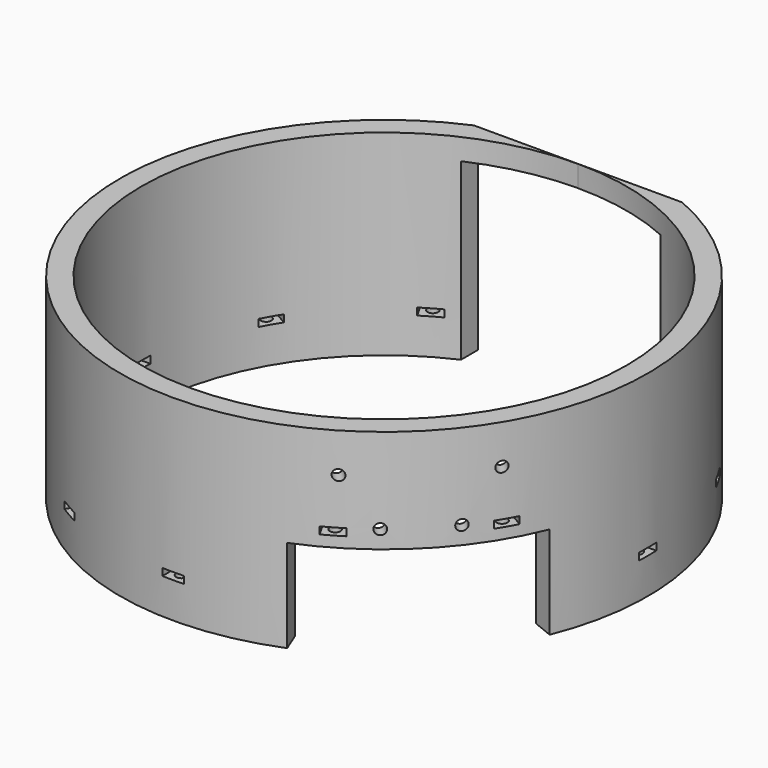
from build123d import *

# Parameters (mm, degrees)
BOX691_W                     = 6
BOX691_H                     = 4
BOX691_DEPTH                 = 6
BOX692_W                     = 6
BOX692_H                     = 4
BOX692_DEPTH                 = 6
COMPOUND880_PLACEMENT_ANGLE  = 225
CYLINDER1738_R               = 1.5
CYLINDER1738_DEPTH           = 50
COMPOUND878_PLACEMENT_ANGLE  = 225
CYLINDER1737_R               = 1.5
CYLINDER1737_DEPTH           = 50
COMPOUND879_PLACEMENT_ANGLE  = 225
BOX686_W                     = 6
BOX686_H                     = 4
BOX686_DEPTH                 = 6
BOX687_W                     = 6
BOX687_H                     = 4
BOX687_DEPTH                 = 6
COMPOUND866_PLACEMENT_ANGLE  = 225
CYLINDER1723_R               = 1.5
CYLINDER1723_DEPTH           = 50
COMPOUND864_PLACEMENT_ANGLE  = 225
CYLINDER1722_R               = 1.5
CYLINDER1722_DEPTH           = 50
COMPOUND863_PLACEMENT_ANGLE  = 225
CYLINDER1632_R               = 1.5
CYLINDER1632_DEPTH           = 72
CYLINDER1632_PLACEMENT_ANGLE = 30
CYLINDER1631_R               = 1.5
CYLINDER1631_DEPTH           = 72
CYLINDER1631_PLACEMENT_ANGLE = 60
CYLINDER1629_R               = 1.5
CYLINDER1629_DEPTH           = 72
CYLINDER1636_R               = 1.5
CYLINDER1636_DEPTH           = 72
CYLINDER1636_PLACEMENT_ANGLE = 120
CYLINDER1630_R               = 1.5
CYLINDER1630_DEPTH           = 72
CYLINDER1630_PLACEMENT_ANGLE = 150
CYLINDER1640_R               = 1.5
CYLINDER1640_DEPTH           = 72
CYLINDER1638_R               = 1.5
CYLINDER1638_DEPTH           = 72
CYLINDER1638_PLACEMENT_ANGLE = 210
CYLINDER1639_R               = 1.5
CYLINDER1639_DEPTH           = 72
CYLINDER1639_PLACEMENT_ANGLE = 240
CYLINDER1634_R               = 1.5
CYLINDER1634_DEPTH           = 72
CYLINDER1635_R               = 1.5
CYLINDER1635_DEPTH           = 72
CYLINDER1635_PLACEMENT_ANGLE = 60
CYLINDER1633_R               = 1.5
CYLINDER1633_DEPTH           = 72
CYLINDER1633_PLACEMENT_ANGLE = 30
CYLINDER1637_R               = 1.5
CYLINDER1637_DEPTH           = 72
BOX489_W                     = 6
BOX489_H                     = 8
BOX489_DEPTH                 = 2
BOX489_PLACEMENT_ANGLE       = 30
BOX490_W                     = 6
BOX490_H                     = 8
BOX490_DEPTH                 = 2
BOX490_PLACEMENT_ANGLE       = 60
BOX491_W                     = 6
BOX491_H                     = 8
BOX491_DEPTH                 = 2
BOX492_W                     = 6
BOX492_H                     = 8
BOX492_DEPTH                 = 2
BOX492_PLACEMENT_ANGLE       = 120
BOX493_W                     = 6
BOX493_H                     = 8
BOX493_DEPTH                 = 2
BOX493_PLACEMENT_ANGLE       = 150
BOX494_W                     = 6
BOX494_H                     = 8
BOX494_DEPTH                 = 2
BOX495_W                     = 6
BOX495_H                     = 8
BOX495_DEPTH                 = 2
BOX495_PLACEMENT_ANGLE       = 210
BOX496_W                     = 6
BOX496_H                     = 8
BOX496_DEPTH                 = 2
BOX496_PLACEMENT_ANGLE       = 240
BOX497_W                     = 6
BOX497_H                     = 8
BOX497_DEPTH                 = 2
BOX498_W                     = 6
BOX498_H                     = 8
BOX498_DEPTH                 = 2
BOX498_PLACEMENT_ANGLE       = 60
BOX499_W                     = 6
BOX499_H                     = 8
BOX499_DEPTH                 = 2
BOX499_PLACEMENT_ANGLE       = 30
BOX488_W                     = 6
BOX488_H                     = 8
BOX488_DEPTH                 = 2
BOX649_W                     = 200
BOX649_H                     = 200
BOX649_DEPTH                 = 60
BOX649_PLACEMENT_ANGLE       = 202
BOX648_W                     = 200
BOX648_H                     = 200
BOX648_DEPTH                 = 60
BOX648_PLACEMENT_ANGLE       = 22
BOX647_W                     = 200
BOX647_H                     = 120
BOX647_DEPTH                 = 60
BOX647_PLACEMENT_ANGLE       = 225
BOX486_W                     = 148
BOX486_H                     = 26
BOX486_DEPTH                 = 55
BOX485_W                     = 56
BOX485_H                     = 200
BOX485_DEPTH                 = 49
TUBE035_R                    = 74
TUBE035_R_2                  = 68
TUBE035_DEPTH                = 55


with BuildPart() as krychle691:
    # Box691 → Box691 (new body)
    with BuildSketch(Plane(origin=(6, 66, -63), x_dir=(1, 0, 0), z_dir=(0, 0, 1))):
        with Locations((3, 2)):
            Rectangle(BOX691_W, BOX691_H)
    extrude(amount=BOX691_DEPTH)


with BuildPart() as compound880:
    # Box692 → Box692 (new body)
    with BuildSketch(Plane(origin=(-12, 66, -63), x_dir=(1, 0, 0), z_dir=(0, 0, 1))):
        with Locations((3, 2)):
            Rectangle(BOX692_W, BOX692_H)
    extrude(amount=BOX692_DEPTH)

    # Compound880: union Krychle691
    add(krychle691.part)


with BuildPart() as compound880_1:
    # Compound880 placement: moved
    add(compound880.part.moved(Location((0, 0, 120))).rotate(Axis((0, 0, 120), (0, 0, 1)), COMPOUND880_PLACEMENT_ANGLE))


with BuildPart() as compound878:
    # Cylinder1738 → Cylinder1738 (new body)
    with BuildSketch(Plane(origin=(9, 100, 59), x_dir=(1, 0, 0), z_dir=(0, -1, 0))):
        Circle(CYLINDER1738_R)
    extrude(amount=CYLINDER1738_DEPTH)


with BuildPart() as compound878_1:
    # Compound878 placement: moved
    add(compound878.part.rotate(Axis((0, 0, 0), (0, 0, 1)), COMPOUND878_PLACEMENT_ANGLE))


with BuildPart() as compound877:
    # Cylinder1737 → Cylinder1737 (new body)
    with BuildSketch(Plane(origin=(-9, 100, 59), x_dir=(1, 0, 0), z_dir=(0, -1, 0))):
        Circle(CYLINDER1737_R)
    extrude(amount=CYLINDER1737_DEPTH)


with BuildPart() as compound877_1:
    # Compound879 placement: moved
    add(compound877.part.rotate(Axis((0, 0, 0), (0, 0, 1)), COMPOUND879_PLACEMENT_ANGLE))

    # Compound877: union Compound878
    add(compound878_1.part)


with BuildPart() as compound877_2:
    # Compound877 placement: moved
    add(compound877_1.part.moved(Location((0, 0, 1))))


with BuildPart() as krychle686:
    # Box686 → Box686 (new body)
    with BuildSketch(Plane(origin=(15, 64, -50), x_dir=(1, 0, 0), z_dir=(0, 0, 1))):
        with Locations((3, 2)):
            Rectangle(BOX686_W, BOX686_H)
    extrude(amount=BOX686_DEPTH)


with BuildPart() as compound866:
    # Box687 → Box687 (new body)
    with BuildSketch(Plane(origin=(-21, 64, -50), x_dir=(1, 0, 0), z_dir=(0, 0, 1))):
        with Locations((3, 2)):
            Rectangle(BOX687_W, BOX687_H)
    extrude(amount=BOX687_DEPTH)

    # Compound866: union Krychle686
    add(krychle686.part)


with BuildPart() as compound866_1:
    # Compound866 placement: moved
    add(compound866.part.moved(Location((0, 0, 120))).rotate(Axis((0, 0, 120), (0, 0, 1)), COMPOUND866_PLACEMENT_ANGLE))


with BuildPart() as compound864:
    # Cylinder1723 → Cylinder1723 (new body)
    with BuildSketch(Plane(origin=(18, 100, 72), x_dir=(1, 0, 0), z_dir=(0, -1, 0))):
        Circle(CYLINDER1723_R)
    extrude(amount=CYLINDER1723_DEPTH)


with BuildPart() as compound864_1:
    # Compound864 placement: moved
    add(compound864.part.rotate(Axis((0, 0, 0), (0, 0, 1)), COMPOUND864_PLACEMENT_ANGLE))


with BuildPart() as compound865:
    # Cylinder1722 → Cylinder1722 (new body)
    with BuildSketch(Plane(origin=(-18, 100, 72), x_dir=(1, 0, 0), z_dir=(0, -1, 0))):
        Circle(CYLINDER1722_R)
    extrude(amount=CYLINDER1722_DEPTH)


with BuildPart() as compound865_1:
    # Compound863 placement: moved
    add(compound865.part.rotate(Axis((0, 0, 0), (0, 0, 1)), COMPOUND863_PLACEMENT_ANGLE))

    # Compound865: union Compound864
    add(compound864_1.part)


with BuildPart() as compound865_2:
    # Compound865 placement: moved
    add(compound865_1.part.moved(Location((0, 0, 1))))


with BuildPart() as obj1:
    # Cylinder1632 → Cylinder1632 (new body)
    with BuildSketch(Plane.XY):
        Circle(CYLINDER1632_R)
    extrude(amount=CYLINDER1632_DEPTH)


with BuildPart() as obj1_1:
    # Cylinder1632 placement: moved
    add(obj1.part.moved(Location((35.5, -61.487804, 0))).rotate(Axis((35.5, -61.487804, 0), (0, 0, 1)), CYLINDER1632_PLACEMENT_ANGLE))


with BuildPart() as obj2:
    # Cylinder1631 → Cylinder1631 (new body)
    with BuildSketch(Plane.XY):
        Circle(CYLINDER1631_R)
    extrude(amount=CYLINDER1631_DEPTH)


with BuildPart() as obj2_1:
    # Cylinder1631 placement: moved
    add(obj2.part.moved(Location((61.487804, -35.5, 0))).rotate(Axis((61.487804, -35.5, 0), (0, 0, 1)), CYLINDER1631_PLACEMENT_ANGLE))


with BuildPart() as obj3:
    # Cylinder1629 → Cylinder1629 (new body)
    with BuildSketch(Plane(origin=(71, 0, 0), x_dir=(0, 1, 0), z_dir=(0, 0, 1))):
        Circle(CYLINDER1629_R)
    extrude(amount=CYLINDER1629_DEPTH)


with BuildPart() as obj4:
    # Cylinder1636 → Cylinder1636 (new body)
    with BuildSketch(Plane.XY):
        Circle(CYLINDER1636_R)
    extrude(amount=CYLINDER1636_DEPTH)


with BuildPart() as obj4_1:
    # Cylinder1636 placement: moved
    add(obj4.part.moved(Location((61.487804, 35.5, 0))).rotate(Axis((61.487804, 35.5, 0), (0, 0, 1)), CYLINDER1636_PLACEMENT_ANGLE))


with BuildPart() as obj5:
    # Cylinder1630 → Cylinder1630 (new body)
    with BuildSketch(Plane.XY):
        Circle(CYLINDER1630_R)
    extrude(amount=CYLINDER1630_DEPTH)


with BuildPart() as obj5_1:
    # Cylinder1630 placement: moved
    add(obj5.part.moved(Location((35.5, 61.487804, 0))).rotate(Axis((35.5, 61.487804, 0), (0, 0, 1)), CYLINDER1630_PLACEMENT_ANGLE))


with BuildPart() as obj6:
    # Cylinder1640 → Cylinder1640 (new body)
    with BuildSketch(Plane(origin=(0, 71, 0), x_dir=(-1, 0, 0), z_dir=(0, 0, 1))):
        Circle(CYLINDER1640_R)
    extrude(amount=CYLINDER1640_DEPTH)


with BuildPart() as obj7:
    # Cylinder1638 → Cylinder1638 (new body)
    with BuildSketch(Plane.XY):
        Circle(CYLINDER1638_R)
    extrude(amount=CYLINDER1638_DEPTH)


with BuildPart() as obj7_1:
    # Cylinder1638 placement: moved
    add(obj7.part.moved(Location((-35.5, 61.487804, 0))).rotate(Axis((-35.5, 61.487804, 0), (0, 0, 1)), CYLINDER1638_PLACEMENT_ANGLE))


with BuildPart() as obj8:
    # Cylinder1639 → Cylinder1639 (new body)
    with BuildSketch(Plane.XY):
        Circle(CYLINDER1639_R)
    extrude(amount=CYLINDER1639_DEPTH)


with BuildPart() as obj8_1:
    # Cylinder1639 placement: moved
    add(obj8.part.moved(Location((-61.487804, 35.5, 0))).rotate(Axis((-61.487804, 35.5, 0), (0, 0, 1)), CYLINDER1639_PLACEMENT_ANGLE))


with BuildPart() as obj9:
    # Cylinder1634 → Cylinder1634 (new body)
    with BuildSketch(Plane(origin=(-71, 0, 0), x_dir=(0, -1, 0), z_dir=(0, 0, 1))):
        Circle(CYLINDER1634_R)
    extrude(amount=CYLINDER1634_DEPTH)


with BuildPart() as obj10:
    # Cylinder1635 → Cylinder1635 (new body)
    with BuildSketch(Plane.XY):
        Circle(CYLINDER1635_R)
    extrude(amount=CYLINDER1635_DEPTH)


with BuildPart() as obj10_1:
    # Cylinder1635 placement: moved
    add(obj10.part.moved(Location((-61.487804, -35.5, 0))).rotate(Axis((-61.487804, -35.5, 0), (0, 0, -1)), CYLINDER1635_PLACEMENT_ANGLE))


with BuildPart() as obj11:
    # Cylinder1633 → Cylinder1633 (new body)
    with BuildSketch(Plane.XY):
        Circle(CYLINDER1633_R)
    extrude(amount=CYLINDER1633_DEPTH)


with BuildPart() as obj11_1:
    # Cylinder1633 placement: moved
    add(obj11.part.moved(Location((-35.5, -61.487804, 0))).rotate(Axis((-35.5, -61.487804, 0), (0, 0, -1)), CYLINDER1633_PLACEMENT_ANGLE))


with BuildPart() as compound529:
    # Cylinder1637 → Cylinder1637 (new body)
    with BuildSketch(Plane(origin=(0, -71, 0), x_dir=(1, 0, 0), z_dir=(0, 0, 1))):
        Circle(CYLINDER1637_R)
    extrude(amount=CYLINDER1637_DEPTH)

    # Compound529: union obj1, obj2, obj3, obj4, obj5, obj6, obj7, obj8, obj9, obj10, obj11
    add(obj1_1.part)
    add(obj2_1.part)
    add(obj3.part)
    add(obj4_1.part)
    add(obj5_1.part)
    add(obj6.part)
    add(obj7_1.part)
    add(obj8_1.part)
    add(obj9.part)
    add(obj10_1.part)
    add(obj11_1.part)


with BuildPart() as compound529_1:
    # Compound529 placement: moved
    add(compound529.part.moved(Location((0, 0, -4))))


with BuildPart() as krychle489:
    # Box489 → Box489 (new body)
    with BuildSketch(Plane.XY):
        with Locations((3, 4)):
            Rectangle(BOX489_W, BOX489_H)
    extrude(amount=BOX489_DEPTH)


with BuildPart() as krychle489_1:
    # Box489 placement: moved
    add(krychle489.part.moved(Location((34.9, -66.45, 58))).rotate(Axis((34.9, -66.45, 58), (0, 0, 1)), BOX489_PLACEMENT_ANGLE))


with BuildPart() as krychle490:
    # Box490 → Box490 (new body)
    with BuildSketch(Plane.XY):
        with Locations((3, 4)):
            Rectangle(BOX490_W, BOX490_H)
    extrude(amount=BOX490_DEPTH)


with BuildPart() as krychle490_1:
    # Box490 placement: moved
    add(krychle490.part.moved(Location((63.45, -40.1, 58))).rotate(Axis((63.45, -40.1, 58), (0, 0, 1)), BOX490_PLACEMENT_ANGLE))


with BuildPart() as krychle491:
    # Box491 → Box491 (new body)
    with BuildSketch(Plane(origin=(75, -3, 39), x_dir=(0, 1, 0), z_dir=(0, 0, 1))):
        with Locations((3, 4)):
            Rectangle(BOX491_W, BOX491_H)
    extrude(amount=BOX491_DEPTH)


with BuildPart() as krychle492:
    # Box492 → Box492 (new body)
    with BuildSketch(Plane.XY):
        with Locations((3, 4)):
            Rectangle(BOX492_W, BOX492_H)
    extrude(amount=BOX492_DEPTH)


with BuildPart() as krychle492_1:
    # Box492 placement: moved
    add(krychle492.part.moved(Location((66.451905, 34.901924, 39))).rotate(Axis((66.451905, 34.901924, 39), (0, 0, 1)), BOX492_PLACEMENT_ANGLE))


with BuildPart() as krychle493:
    # Box493 → Box493 (new body)
    with BuildSketch(Plane.XY):
        with Locations((3, 4)):
            Rectangle(BOX493_W, BOX493_H)
    extrude(amount=BOX493_DEPTH)


with BuildPart() as krychle493_1:
    # Box493 placement: moved
    add(krychle493.part.moved(Location((40.098076, 63.451905, 39))).rotate(Axis((40.098076, 63.451905, 39), (0, 0, 1)), BOX493_PLACEMENT_ANGLE))


with BuildPart() as krychle494:
    # Box494 → Box494 (new body)
    with BuildSketch(Plane(origin=(3, 75, 39), x_dir=(-1, 0, 0), z_dir=(0, 0, 1))):
        with Locations((3, 4)):
            Rectangle(BOX494_W, BOX494_H)
    extrude(amount=BOX494_DEPTH)


with BuildPart() as krychle495:
    # Box495 → Box495 (new body)
    with BuildSketch(Plane.XY):
        with Locations((3, 4)):
            Rectangle(BOX495_W, BOX495_H)
    extrude(amount=BOX495_DEPTH)


with BuildPart() as krychle495_1:
    # Box495 placement: moved
    add(krychle495.part.moved(Location((-34.901924, 66.451905, 39))).rotate(Axis((-34.901924, 66.451905, 39), (0, 0, 1)), BOX495_PLACEMENT_ANGLE))


with BuildPart() as krychle496:
    # Box496 → Box496 (new body)
    with BuildSketch(Plane.XY):
        with Locations((3, 4)):
            Rectangle(BOX496_W, BOX496_H)
    extrude(amount=BOX496_DEPTH)


with BuildPart() as krychle496_1:
    # Box496 placement: moved
    add(krychle496.part.moved(Location((-63.451905, 40.098076, 39))).rotate(Axis((-63.451905, 40.098076, 39), (0, 0, 1)), BOX496_PLACEMENT_ANGLE))


with BuildPart() as krychle497:
    # Box497 → Box497 (new body)
    with BuildSketch(Plane(origin=(-75, 3, 39), x_dir=(0, -1, 0), z_dir=(0, 0, 1))):
        with Locations((3, 4)):
            Rectangle(BOX497_W, BOX497_H)
    extrude(amount=BOX497_DEPTH)


with BuildPart() as krychle498:
    # Box498 → Box498 (new body)
    with BuildSketch(Plane.XY):
        with Locations((3, 4)):
            Rectangle(BOX498_W, BOX498_H)
    extrude(amount=BOX498_DEPTH)


with BuildPart() as krychle498_1:
    # Box498 placement: moved
    add(krychle498.part.moved(Location((-66.451905, -34.901924, 39))).rotate(Axis((-66.451905, -34.901924, 39), (0, 0, -1)), BOX498_PLACEMENT_ANGLE))


with BuildPart() as krychle499:
    # Box499 → Box499 (new body)
    with BuildSketch(Plane.XY):
        with Locations((3, 4)):
            Rectangle(BOX499_W, BOX499_H)
    extrude(amount=BOX499_DEPTH)


with BuildPart() as krychle499_1:
    # Box499 placement: moved
    add(krychle499.part.moved(Location((-40.098076, -63.451905, 39))).rotate(Axis((-40.098076, -63.451905, 39), (0, 0, -1)), BOX499_PLACEMENT_ANGLE))


with BuildPart() as compound528:
    # Box488 → Box488 (new body)
    with BuildSketch(Plane(origin=(-3, -75, 39), x_dir=(1, 0, 0), z_dir=(0, 0, 1))):
        with Locations((3, 4)):
            Rectangle(BOX488_W, BOX488_H)
    extrude(amount=BOX488_DEPTH)

    # Compound528: union Krychle489, Krychle490, Krychle491, Krychle492, Krychle493, Krychle494, Krychle495, Krychle496, Krychle497, Krychle498, Krychle499
    add(krychle489_1.part)
    add(krychle490_1.part)
    add(krychle491.part)
    add(krychle492_1.part)
    add(krychle493_1.part)
    add(krychle494.part)
    add(krychle495_1.part)
    add(krychle496_1.part)
    add(krychle497.part)
    add(krychle498_1.part)
    add(krychle499_1.part)


with BuildPart() as krychle649:
    # Box649 → Box649 (new body)
    with BuildSketch(Plane.XY):
        with Locations((100, 100)):
            Rectangle(BOX649_W, BOX649_H)
    extrude(amount=BOX649_DEPTH)


with BuildPart() as krychle649_1:
    # Box649 placement: moved
    add(krychle649.part.moved(Location((0, 0, -5))).rotate(Axis((0, 0, -5), (0, 0, 1)), BOX649_PLACEMENT_ANGLE))


with BuildPart() as krychle648:
    # Box648 → Box648 (new body)
    with BuildSketch(Plane.XY):
        with Locations((100, 100)):
            Rectangle(BOX648_W, BOX648_H)
    extrude(amount=BOX648_DEPTH)


with BuildPart() as krychle648_1:
    # Box648 placement: moved
    add(krychle648.part.moved(Location((0, 0, -5))).rotate(Axis((0, 0, -5), (0, 0, -1)), BOX648_PLACEMENT_ANGLE))


with BuildPart() as cut465:
    # Box647 → Box647 (new body)
    with BuildSketch(Plane.XY):
        with Locations((100, 60)):
            Rectangle(BOX647_W, BOX647_H)
    extrude(amount=BOX647_DEPTH)


with BuildPart() as cut465_1:
    # Box647 placement: moved
    add(cut465.part.moved(Location((70.710678, 70.710678, -5))).rotate(Axis((70.710678, 70.710678, -5), (0, 0, 1)), BOX647_PLACEMENT_ANGLE))

    # Cut464: cut Krychle648
    add(krychle648_1.part, mode=Mode.SUBTRACT)

    # Cut465: cut Krychle649
    add(krychle649_1.part, mode=Mode.SUBTRACT)


with BuildPart() as krychle486:
    # Box486 → Box486 (new body)
    with BuildSketch(Plane(origin=(-74, 68, 29), x_dir=(1, 0, 0), z_dir=(0, 0, 1))):
        with Locations((74, 13)):
            Rectangle(BOX486_W, BOX486_H)
    extrude(amount=BOX486_DEPTH)


with BuildPart() as krychle485:
    # Box485 → Box485 (new body)
    with BuildSketch(Plane(origin=(-28, 35, 29), x_dir=(1, 0, 0), z_dir=(0, 0, 1))):
        with Locations((28, 100)):
            Rectangle(BOX485_W, BOX485_H)
    extrude(amount=BOX485_DEPTH)


with BuildPart() as cut509:
    # Tube035 → Tube035 (new body)
    with BuildSketch(Plane.XY.offset(29)):
        Circle(TUBE035_R)
        Circle(TUBE035_R_2, mode=Mode.SUBTRACT)
    extrude(amount=TUBE035_DEPTH)

    # Cut455: cut Krychle485
    add(krychle485.part, mode=Mode.SUBTRACT)

    # Cut454: cut Krychle486
    add(krychle486.part, mode=Mode.SUBTRACT)

    # Cut: cut Cut465
    add(cut465_1.part, mode=Mode.SUBTRACT)

    # Cut467: cut Compound528
    add(compound528.part, mode=Mode.SUBTRACT)

    # Cut468: cut Compound529
    add(compound529_1.part, mode=Mode.SUBTRACT)

    # Cut500: cut Compound865
    add(compound865_2.part, mode=Mode.SUBTRACT)

    # Cut501: cut Compound866
    add(compound866_1.part, mode=Mode.SUBTRACT)

    # Cut508: cut Compound877
    add(compound877_2.part, mode=Mode.SUBTRACT)

    # Cut509: cut Compound880
    add(compound880_1.part, mode=Mode.SUBTRACT)


solid = cut509.part
